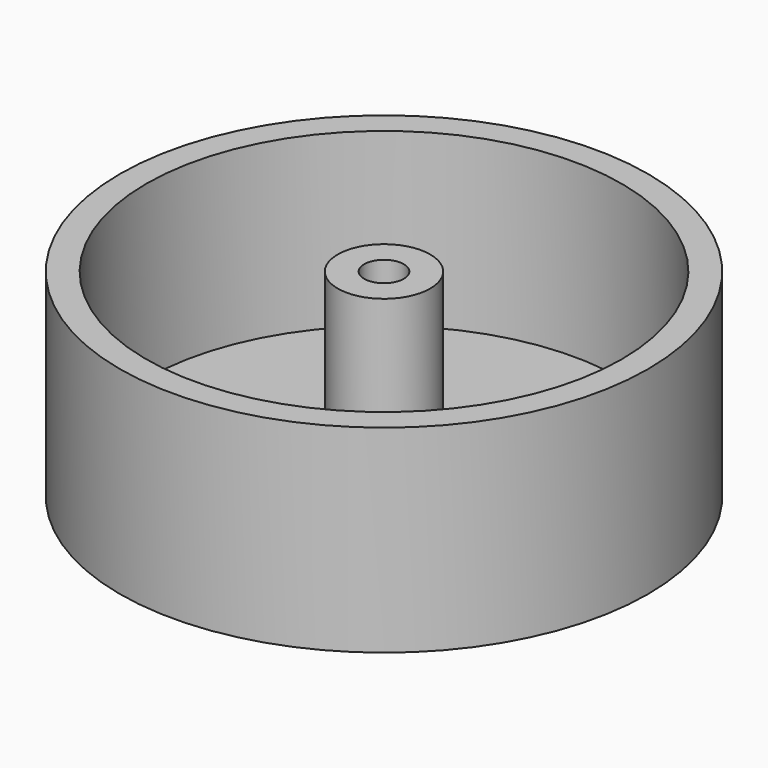
from build123d import *

# Parameters (mm, degrees)
F0_R     = 20
F1_DEPTH = 15
F2_R     = 18
F3_DEPTH = 13
F4_R     = 3.5
F4_R_2   = 1.5
F5_DEPTH = 13


with BuildPart() as f1:
    # F0 (on Top) → F1 (new body)
    with BuildSketch(Plane.XY):
        Circle(F0_R)
    extrude(amount=F1_DEPTH)

    # F2 (on face) → F3 (cut)
    with BuildSketch(Plane.XY.offset(15)):
        Circle(F2_R)
    extrude(amount=-F3_DEPTH, mode=Mode.SUBTRACT)

    # F4 (on face) → F5 (join)
    with BuildSketch(Plane.XY.offset(2)):
        Circle(F4_R)
        Circle(F4_R_2, mode=Mode.SUBTRACT)
    extrude(amount=F5_DEPTH)


solid = f1.part
